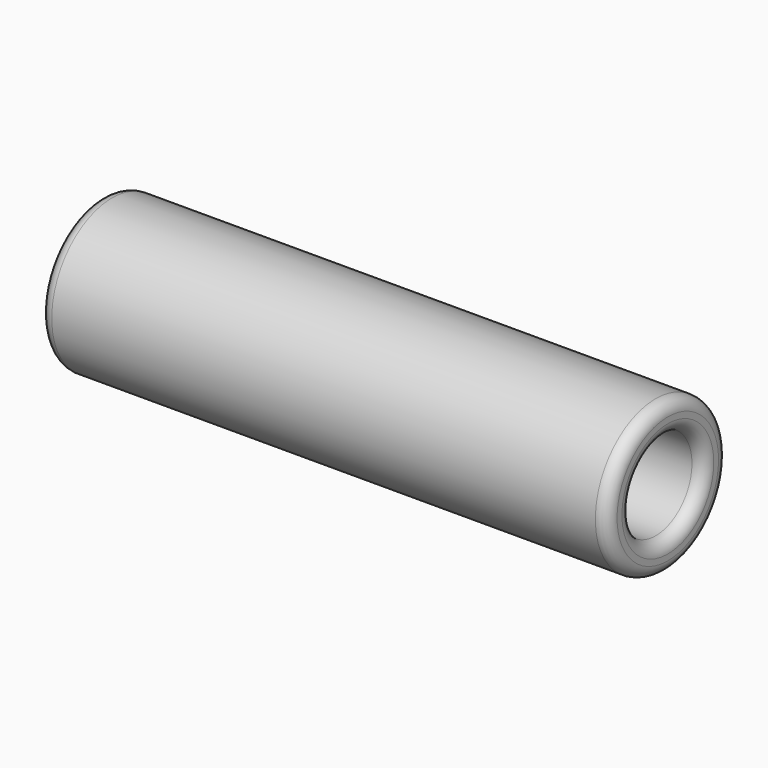
from build123d import *

# Parameters (mm, degrees)
F0_R     = 6.25
F0_R_2   = 3.75
F1_DEPTH = 47
F2_R     = 1


with BuildPart() as f1:
    # F0 (on Right) → F1 (new body)
    with BuildSketch(Plane.YZ):
        Circle(F0_R)
        Circle(F0_R_2, mode=Mode.SUBTRACT)
    extrude(amount=F1_DEPTH)

    # F2
    f2_edges = [f1.edges().sort_by_distance(p)[0] for p in [
        (0, -6.25, 0),
        (0, -3.75, 0),
        (47, -6.25, 0),
        (47, -3.75, 0),
    ]]
    fillet(f2_edges, radius=F2_R)


solid = f1.part
